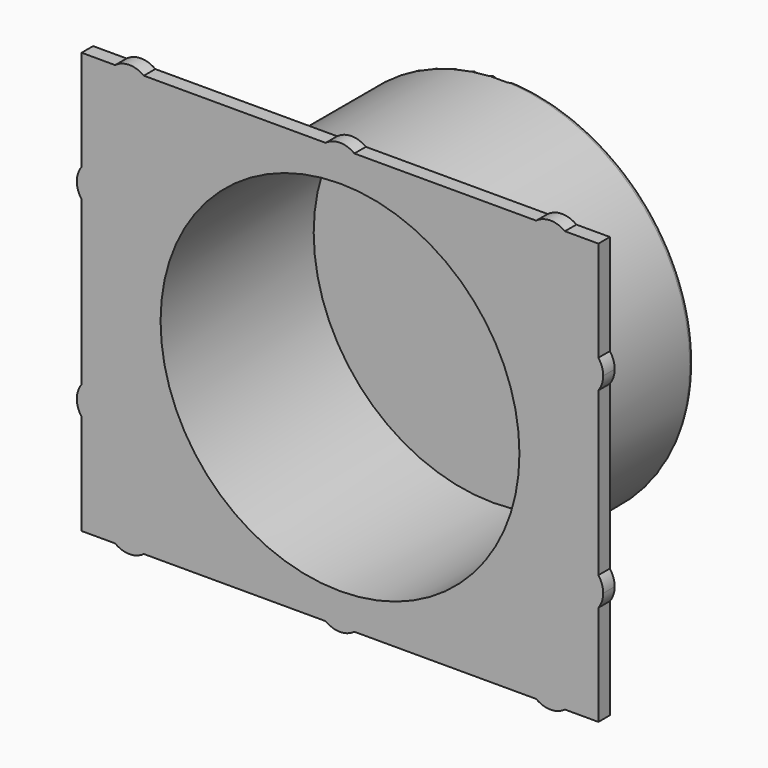
from build123d import *

# Parameters (mm, degrees)
F1_DEPTH = 3
F2_R     = 39.5
F3_DEPTH = 40
F4_R     = 1.5
F5_DEPTH = 3
F5_TAPER = 5
F6_R     = 1
F7_R     = 37.5
F8_DEPTH = 40


with BuildPart() as f1:
    # F0 (on Front) → F1 (new body)
    with BuildSketch(Plane.XZ):
        with BuildLine():
            Line((0, 21), (0, 0))
            Line((0, 0), (7, 0))
            ThreePointArc((7, 0), (7.7639320225, 8.472135955), (15, 4))
            ThreePointArc((15, 4), (14.472135955, 1.7639320225), (13, 0))
            Line((13, 0), (51, 0))
            ThreePointArc((51, 0), (49.2565835097, 5.5811388301), (54, 9))
            Line((54, 9), (54, 44))
            Line((54, 44), (0, 44))
            Line((0, 44), (0, 27))
            ThreePointArc((0, 27), (5.5811388301, 28.7434164903), (9, 24))
            ThreePointArc((9, 24), (5.5811388301, 19.2565835097), (0, 21))
        make_face()
        with BuildLine():
            ThreePointArc((15, 4), (7.7639320225, 8.472135955), (7, 0))
            Line((7, 0), (13, 0))
            ThreePointArc((13, 0), (14.472135955, 1.7639320225), (15, 4))
        make_face()
        with BuildLine():
            Line((13, 0), (7, 0))
            ThreePointArc((7, 0), (10, -1), (13, 0))
        make_face()
        with BuildLine():
            ThreePointArc((0, 27), (-1, 24), (0, 21))
            Line((0, 21), (0, 27))
        make_face()
        with BuildLine():
            Line((0, 27), (0, 21))
            ThreePointArc((0, 21), (5.5811388301, 19.2565835097), (9, 24))
            ThreePointArc((9, 24), (5.5811388301, 28.7434164903), (0, 27))
        make_face()
        with BuildLine():
            ThreePointArc((54, 9), (49.2565835097, 5.5811388301), (51, 0))
            Line((51, 0), (54, 0))
            Line((54, 0), (54, 9))
        make_face()
        with BuildLine():
            Line((54, 0), (51, 0))
            ThreePointArc((51, 0), (54, -1), (57, 0))
            Line((57, 0), (54, 0))
        make_face()
        with BuildLine():
            Line((0, 61), (0, 44))
            Line((0, 44), (54, 44))
            Line((54, 44), (54, 79))
            ThreePointArc((54, 79), (49.2565835097, 82.4188611699), (51, 88))
            Line((51, 88), (13, 88))
            ThreePointArc((13, 88), (14.472135955, 86.2360679775), (15, 84))
            ThreePointArc((15, 84), (7.7639320225, 79.527864045), (7, 88))
            Line((7, 88), (0, 88))
            Line((0, 88), (0, 67))
            ThreePointArc((0, 67), (5.5811388301, 68.7434164903), (9, 64))
            ThreePointArc((9, 64), (5.5811388301, 59.2565835097), (0, 61))
        make_face()
        with BuildLine():
            Line((54, 9), (54, 0))
            Line((54, 0), (57, 0))
            ThreePointArc((57, 0), (58.472135955, 1.7639320225), (59, 4))
            ThreePointArc((59, 4), (57.5355339059, 7.5355339059), (54, 9))
        make_face()
        with BuildLine():
            Line((54, 44), (54, 9))
            ThreePointArc((54, 9), (57.5355339059, 7.5355339059), (59, 4))
            ThreePointArc((59, 4), (58.472135955, 1.7639320225), (57, 0))
            Line((57, 0), (95, 0))
            ThreePointArc((95, 0), (95.7639320225, 8.472135955), (103, 4))
            ThreePointArc((103, 4), (102.472135955, 1.7639320225), (101, 0))
            Line((101, 0), (108, 0))
            Line((108, 0), (108, 21))
            ThreePointArc((108, 21), (99, 24), (108, 27))
            Line((108, 27), (108, 44))
            Line((108, 44), (54, 44))
        make_face()
        with BuildLine():
            ThreePointArc((0, 67), (-1, 64), (0, 61))
            Line((0, 61), (0, 67))
        make_face()
        with BuildLine():
            Line((0, 67), (0, 61))
            ThreePointArc((0, 61), (5.5811388301, 59.2565835097), (9, 64))
            ThreePointArc((9, 64), (5.5811388301, 68.7434164903), (0, 67))
        make_face()
        with BuildLine():
            Line((54, 79), (54, 44))
            Line((54, 44), (108, 44))
            Line((108, 44), (108, 61))
            ThreePointArc((108, 61), (99, 64), (108, 67))
            Line((108, 67), (108, 88))
            Line((108, 88), (101, 88))
            ThreePointArc((101, 88), (102.472135955, 86.2360679775), (103, 84))
            ThreePointArc((103, 84), (95.7639320225, 79.527864045), (95, 88))
            Line((95, 88), (57, 88))
            ThreePointArc((57, 88), (58.472135955, 86.2360679775), (59, 84))
            ThreePointArc((59, 84), (57.5355339059, 80.4644660941), (54, 79))
        make_face()
        with BuildLine():
            ThreePointArc((103, 4), (95.7639320225, 8.472135955), (95, 0))
            Line((95, 0), (101, 0))
            ThreePointArc((101, 0), (102.472135955, 1.7639320225), (103, 4))
        make_face()
        with BuildLine():
            Line((101, 0), (95, 0))
            ThreePointArc((95, 0), (98, -1), (101, 0))
        make_face()
        with BuildLine():
            ThreePointArc((51, 88), (49.2565835097, 82.4188611699), (54, 79))
            Line((54, 79), (54, 88))
            Line((54, 88), (51, 88))
        make_face()
        with BuildLine():
            Line((54, 88), (54, 79))
            ThreePointArc((54, 79), (57.5355339059, 80.4644660941), (59, 84))
            ThreePointArc((59, 84), (58.472135955, 86.2360679775), (57, 88))
            Line((57, 88), (54, 88))
        make_face()
        with BuildLine():
            Line((51, 88), (54, 88))
            Line((54, 88), (57, 88))
            ThreePointArc((57, 88), (54, 89), (51, 88))
        make_face()
        with BuildLine():
            ThreePointArc((109, 24), (108.7434164903, 25.5811388301), (108, 27))
            Line((108, 27), (108, 21))
            ThreePointArc((108, 21), (108.7434164903, 22.4188611699), (109, 24))
        make_face()
        with BuildLine():
            Line((108, 21), (108, 27))
            ThreePointArc((108, 27), (99, 24), (108, 21))
        make_face()
        with BuildLine():
            ThreePointArc((108, 67), (99, 64), (108, 61))
            Line((108, 61), (108, 67))
        make_face()
        with BuildLine():
            Line((108, 67), (108, 61))
            ThreePointArc((108, 61), (108.7434164903, 62.4188611699), (109, 64))
            ThreePointArc((109, 64), (108.7434164903, 65.5811388301), (108, 67))
        make_face()
        with BuildLine():
            ThreePointArc((13, 88), (10, 89), (7, 88))
            Line((7, 88), (13, 88))
        make_face()
        with BuildLine():
            Line((13, 88), (7, 88))
            ThreePointArc((7, 88), (7.7639320225, 79.527864045), (15, 84))
            ThreePointArc((15, 84), (14.472135955, 86.2360679775), (13, 88))
        make_face()
        with BuildLine():
            ThreePointArc((101, 88), (98, 89), (95, 88))
            Line((95, 88), (101, 88))
        make_face()
        with BuildLine():
            Line((101, 88), (95, 88))
            ThreePointArc((95, 88), (95.7639320225, 79.527864045), (103, 84))
            ThreePointArc((103, 84), (102.472135955, 86.2360679775), (101, 88))
        make_face()
        with BuildLine():
            Line((0, 21), (0, 0))
            Line((0, 0), (7, 0))
            ThreePointArc((7, 0), (7.7639320225, 8.472135955), (15, 4))
            ThreePointArc((15, 4), (14.472135955, 1.7639320225), (13, 0))
            Line((13, 0), (51, 0))
            ThreePointArc((51, 0), (49.2565835097, 5.5811388301), (54, 9))
            Line((54, 9), (54, 44))
            Line((54, 44), (0, 44))
            Line((0, 44), (0, 27))
            ThreePointArc((0, 27), (5.5811388301, 28.7434164903), (9, 24))
            ThreePointArc((9, 24), (5.5811388301, 19.2565835097), (0, 21))
        make_face()
        with BuildLine():
            Line((54, 44), (54, 9))
            ThreePointArc((54, 9), (57.5355339059, 7.5355339059), (59, 4))
            ThreePointArc((59, 4), (58.472135955, 1.7639320225), (57, 0))
            Line((57, 0), (95, 0))
            ThreePointArc((95, 0), (95.7639320225, 8.472135955), (103, 4))
            ThreePointArc((103, 4), (102.472135955, 1.7639320225), (101, 0))
            Line((101, 0), (108, 0))
            Line((108, 0), (108, 21))
            ThreePointArc((108, 21), (99, 24), (108, 27))
            Line((108, 27), (108, 44))
            Line((108, 44), (54, 44))
        make_face()
    extrude(amount=F1_DEPTH)

    # F2 (on face) → F3 (join)
    with BuildSketch(Plane(origin=(0, 0, 0), x_dir=(-1, 0, 0), z_dir=(0, 1, 0))):
        with Locations((-54, 44)):
            Circle(F2_R)
    extrude(amount=F3_DEPTH)

    # F4 (on face) → F5 (join)
    with BuildSketch(Plane(origin=(0, 0, 0), x_dir=(-1, 0, 0), z_dir=(0, 1, 0))):
        with Locations((-85.5000000012, 77)):
            Circle(F4_R)
        with Locations((-22.4999999988, 77)):
            Circle(F4_R)
        with Locations((-85.5000000012, 11)):
            Circle(F4_R)
        with Locations((-22.4999999988, 11)):
            Circle(F4_R)
    extrude(amount=F5_DEPTH, taper=F5_TAPER)

    # F6
    f6_edges = [f1.edges().sort_by_distance(p)[0] for p in [
        (93.5, 40, 44),
    ]]
    fillet(f6_edges, radius=F6_R)

    # F7 (on face) → F8 (cut)
    with BuildSketch(Plane.XZ.offset(3)):
        with Locations((54, 44)):
            Circle(F7_R)
    extrude(amount=-F8_DEPTH, mode=Mode.SUBTRACT)


solid = f1.part
